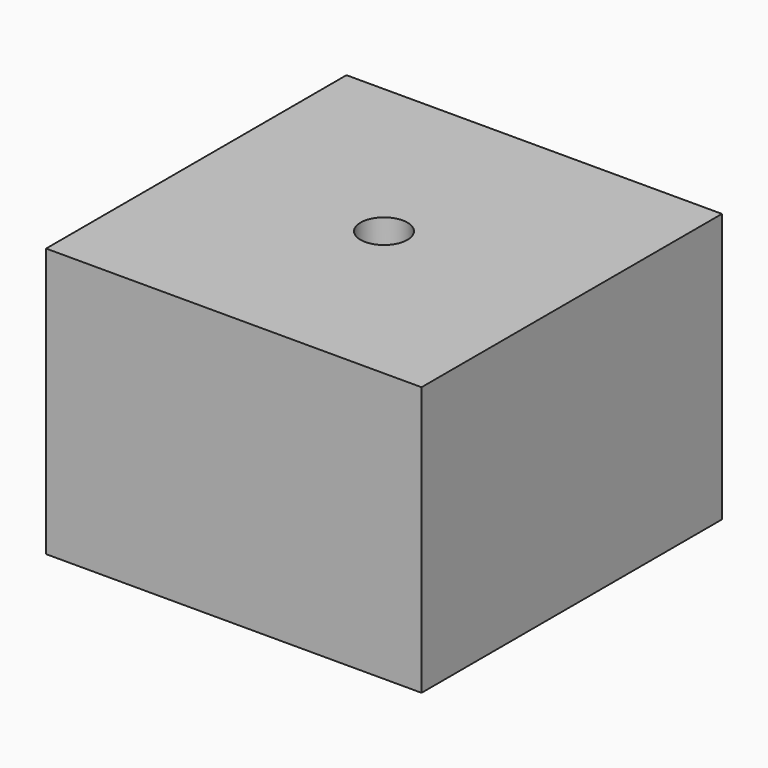
from build123d import *

# Parameters (mm, degrees)
SKETCH_W    = 25.4
SKETCH_H    = 25.4
PAD_DEPTH   = 18.2
SKETCH001_R = 1.585
HOLE_DEPTH  = 18.201


with BuildPart() as part:
    # Sketch → Pad (new body)
    with BuildSketch(Plane.XY):
        Rectangle(SKETCH_W, SKETCH_H)
    extrude(amount=PAD_DEPTH)

    # Sketch001 (on Face6 of Pad) → Hole (cut, through all)
    with BuildSketch(Plane.XY.offset(18.2)):
        Circle(SKETCH001_R)
    extrude(amount=-HOLE_DEPTH, mode=Mode.SUBTRACT)


solid = part.part
